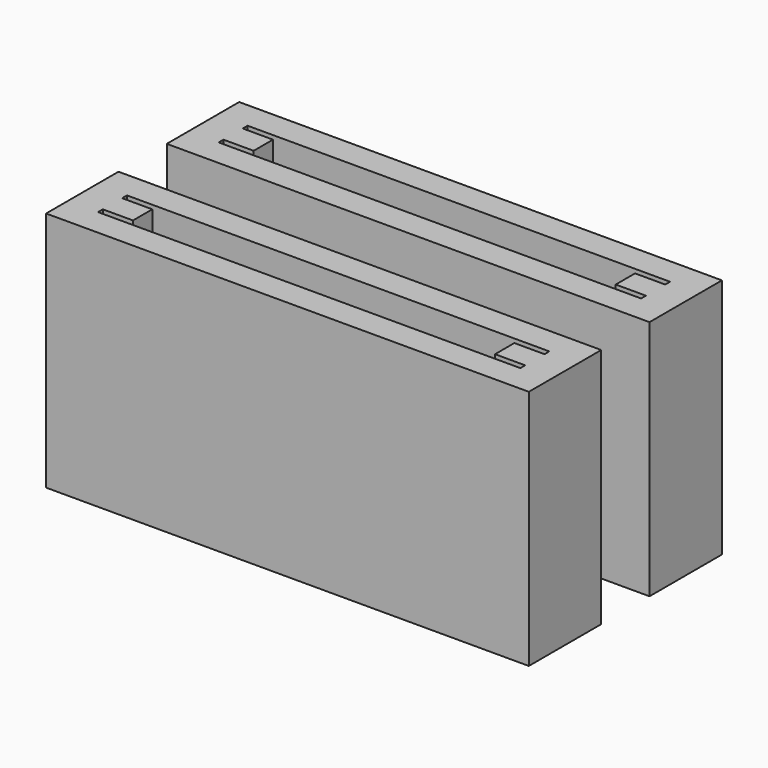
from build123d import *

# Parameters (mm, degrees)
F0_W     = 80
F0_H     = 15
F1_DEPTH = 40
F2_DEPTH = 5
F3_DEPTH = 10
F0_W_2   = 5
F0_H_2   = 2
F0_W_3   = 10
F4_DEPTH = 10


with BuildPart() as f1:
    # F0 (on Top) → F1 (new body)
    with BuildSketch(Plane.XY):
        Rectangle(F0_W, F0_H)
        Polygon((-35, 3), (35, 3), (35, 2), (30, 2), (30, 1), (30, -1), (30, -2), (35, -2), (35, -3), (-35, -3), (-35, -2), (-30, -2), (-30, -1), (-30, 1), (-30, 2), (-35, 2), align=None, mode=Mode.SUBTRACT)
    extrude(amount=F1_DEPTH)

    # F0 (on Top) → F2, piece 2 (join)
    with BuildSketch(Plane.XY):
        Polygon((35, 2), (35, 3), (-35, 3), (-35, 2), (-30, 2), (30, 2), align=None)
        Polygon((35, -2), (30, -2), (-30, -2), (-35, -2), (-35, -3), (35, -3), align=None)
    extrude(amount=F2_DEPTH)

    # F0 (on Top) → F3 (join)
    with BuildSketch(Plane.XY):
        Polygon((30, 1), (30, 2), (-30, 2), (-30, 1), (-25, 1), (-15, 1), (-5, 1), (5, 1), (15, 1), (25, 1), align=None)
        Polygon((30, -2), (30, -1), (25, -1), (15, -1), (5, -1), (-5, -1), (-15, -1), (-25, -1), (-30, -1), (-30, -2), align=None)
    extrude(amount=F3_DEPTH)

    # F0 (on Top) → F4, piece 2 (join)
    with BuildSketch(Plane.XY):
        with Locations((27.5, 0)):
            Rectangle(F0_W_2, F0_H_2)
        with Locations((10, 0)):
            Rectangle(F0_W_3, F0_H_2)
        with Locations((-10, 0)):
            Rectangle(F0_W_3, F0_H_2)
        with Locations((-27.5, 0)):
            Rectangle(F0_W_2, F0_H_2)
    extrude(amount=F4_DEPTH)


with BuildPart() as f1b:
    # F0 (on Top) → F1, piece 2 (new body)
    with BuildSketch(Plane.XY):
        with Locations((0, 25)):
            Rectangle(F0_W, F0_H)
        Polygon((-35, 28), (35, 28), (35, 27), (30, 27), (30, 26), (30, 24), (30, 23), (35, 23), (35, 22), (-35, 22), (-35, 23), (-30, 23), (-30, 24), (-30, 26), (-30, 27), (-35, 27), align=None, mode=Mode.SUBTRACT)
    extrude(amount=F1_DEPTH)

    # F0 (on Top) → F2 (join)
    with BuildSketch(Plane.XY):
        Polygon((35, 23), (30, 23), (-30, 23), (-35, 23), (-35, 22), (35, 22), align=None)
        Polygon((35, 27), (35, 28), (-35, 28), (-35, 27), (-30, 27), (30, 27), align=None)
    extrude(amount=F2_DEPTH)

    # F0 (on Top) → F3, piece 2 (join)
    with BuildSketch(Plane.XY):
        Polygon((30, 23), (30, 24), (25, 24), (15, 24), (5, 24), (-5, 24), (-15, 24), (-25, 24), (-30, 24), (-30, 23), align=None)
        Polygon((30, 26), (30, 27), (-30, 27), (-30, 26), (-25, 26), (-15, 26), (-5, 26), (5, 26), (15, 26), (25, 26), align=None)
    extrude(amount=F3_DEPTH)

    # F0 (on Top) → F4 (join)
    with BuildSketch(Plane.XY):
        with Locations((27.5, 25)):
            Rectangle(F0_W_2, F0_H_2)
        with Locations((10, 25)):
            Rectangle(F0_W_3, F0_H_2)
        with Locations((-10, 25)):
            Rectangle(F0_W_3, F0_H_2)
        with Locations((-27.5, 25)):
            Rectangle(F0_W_2, F0_H_2)
    extrude(amount=F4_DEPTH)


solid = Compound([f1.part, f1b.part])
